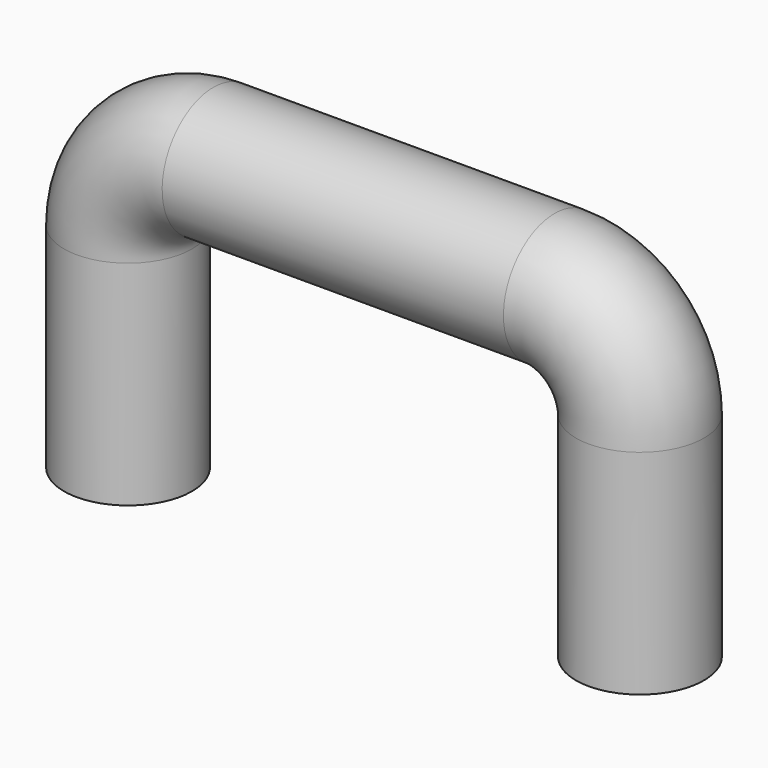
from build123d import *

# Parameters (mm, degrees)
F0_R = 1.5


with BuildPart() as f2:
    # F2: sweep along a path in F1
    with BuildLine(Plane.XZ) as f2_path:
        Line((-6, 0), (-6, 5))
        ThreePointArc((-6, 5), (-5.4142135624, 6.4142135624), (-4, 7))
        Line((-4, 7), (0, 7))
    # F0 (on Top) → F2 (sweep)
    with BuildSketch(Plane.XY):
        with Locations((-6, 0)):
            Circle(F0_R)
    sweep(path=f2_path.line)

    # F3: F2 across plane


with BuildPart() as f2_1:
    add(f2.part)
    add(f2.part.mirror(Plane.YZ))


solid = f2_1.part
